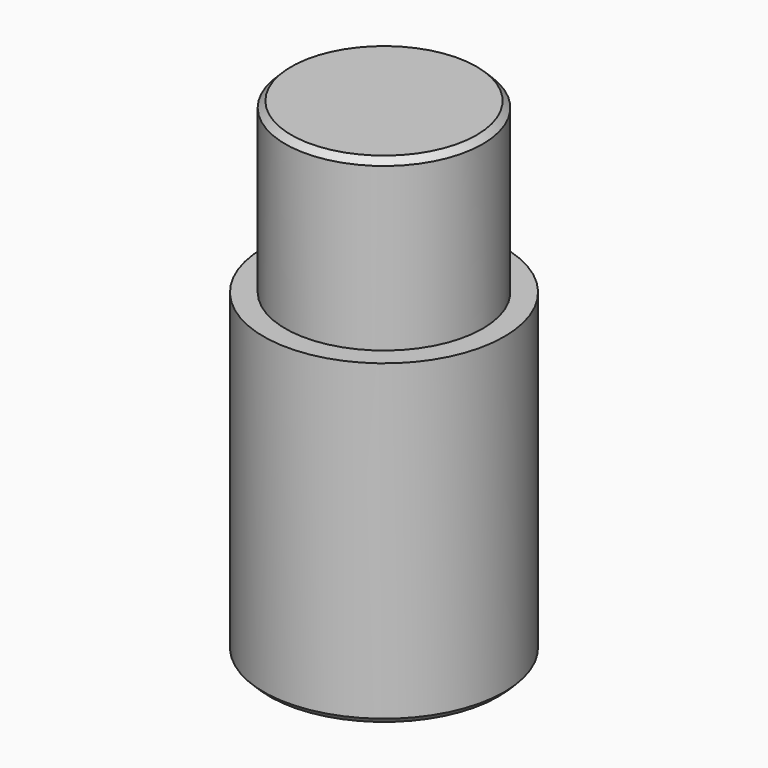
from build123d import *

# Parameters (mm, degrees)
SKETCH_R        = 5
PAD_DEPTH       = 13.25
SKETCH001_R     = 4.1
PAD001_DEPTH    = 7
CHAMFER_SIZE    = 0.25
CHAMFER001_SIZE = 0.25


with BuildPart() as part:
    # Sketch → Pad (new body)
    with BuildSketch(Plane.XY):
        Circle(SKETCH_R)
    extrude(amount=PAD_DEPTH)

    # Sketch001 (on Face3 of Pad) → Pad001 (join)
    with BuildSketch(Plane.XY.offset(13.25)):
        Circle(SKETCH001_R)
    extrude(amount=PAD001_DEPTH)

    # Chamfer
    chamfer_edges = [part.edges().sort_by_distance(p)[0] for p in [
        (-4.1, 0, 20.25),
    ]]
    chamfer(chamfer_edges, length=CHAMFER_SIZE)

    # Chamfer001
    chamfer001_edges = [part.edges().sort_by_distance(p)[0] for p in [
        (-5, 0, 0),
    ]]
    chamfer(chamfer001_edges, length=CHAMFER001_SIZE)


solid = part.part
